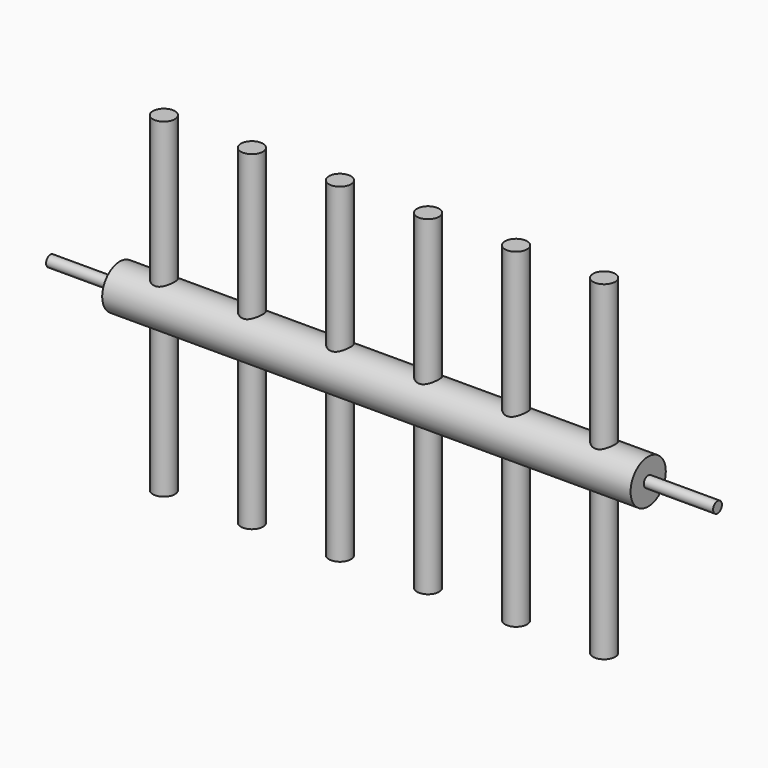
from build123d import *

# Parameters (mm, degrees)
F0_R          = 12.7
F1_DEPTH      = 304.8
F2_R          = 3.175
F3_DEPTH      = 40
F4_R          = 3.175
F5_DEPTH      = 40
F7_DEPTH      = 95.25
F7_DEPTH_BACK = 95.25


with BuildPart() as f1:
    # F0 (on Right) → F1 (new body)
    with BuildSketch(Plane.YZ):
        Circle(F0_R)
    extrude(amount=F1_DEPTH)

    # F2 (on face) → F3 (join)
    with BuildSketch(Plane(origin=(0, 0, 0), x_dir=(0, -1, 0), z_dir=(-1, 0, 0))):
        Circle(F2_R)
    extrude(amount=F3_DEPTH)

    # F4 (on face) → F5 (join)
    with BuildSketch(Plane.YZ.offset(304.8)):
        Circle(F4_R)
    extrude(amount=F5_DEPTH)

    # F6 (on Top) → F7 (join, two sides)
    with BuildSketch(Plane.XY) as f7_sk:
        with BuildLine():
            Line((177.8, 0), (184.15, 0))
            ThreePointArc((184.15, 0), (177.8, 6.35), (171.45, 0))
            Line((171.45, 0), (177.8, 0))
        make_face()
        with BuildLine():
            ThreePointArc((19.05, 0), (25.4, -6.35), (31.75, 0))
            Line((31.75, 0), (25.4, 0))
            Line((25.4, 0), (19.05, 0))
        make_face()
        with BuildLine():
            Line((25.4, 0), (31.75, 0))
            ThreePointArc((31.75, 0), (25.4, 6.35), (19.05, 0))
            Line((19.05, 0), (25.4, 0))
        make_face()
        with BuildLine():
            ThreePointArc((69.85, 0), (76.2, -6.35), (82.55, 0))
            Line((82.55, 0), (76.2, 0))
            Line((76.2, 0), (69.85, 0))
        make_face()
        with BuildLine():
            Line((76.2, 0), (82.55, 0))
            ThreePointArc((82.55, 0), (76.2, 6.35), (69.85, 0))
            Line((69.85, 0), (76.2, 0))
        make_face()
        with BuildLine():
            ThreePointArc((120.65, 0), (127, -6.35), (133.35, 0))
            Line((133.35, 0), (127, 0))
            Line((127, 0), (120.65, 0))
        make_face()
        with BuildLine():
            Line((127, 0), (133.35, 0))
            ThreePointArc((133.35, 0), (127, 6.35), (120.65, 0))
            Line((120.65, 0), (127, 0))
        make_face()
        with BuildLine():
            ThreePointArc((171.45, 0), (177.8, -6.35), (184.15, 0))
            Line((184.15, 0), (177.8, 0))
            Line((177.8, 0), (171.45, 0))
        make_face()
        with BuildLine():
            ThreePointArc((285.75, 0), (279.4, 6.35), (273.05, 0))
            ThreePointArc((273.05, 0), (279.4, -6.35), (285.75, 0))
        make_face()
        with BuildLine():
            ThreePointArc((234.95, 0), (228.6, 6.35), (222.25, 0))
            Line((222.25, 0), (228.6, 0))
            Line((228.6, 0), (234.95, 0))
        make_face()
        with BuildLine():
            Line((228.6, 0), (222.25, 0))
            ThreePointArc((222.25, 0), (228.6, -6.35), (234.95, 0))
            Line((234.95, 0), (228.6, 0))
        make_face()
    extrude(amount=F7_DEPTH)
    extrude(f7_sk.sketch, amount=-F7_DEPTH_BACK)


solid = f1.part
